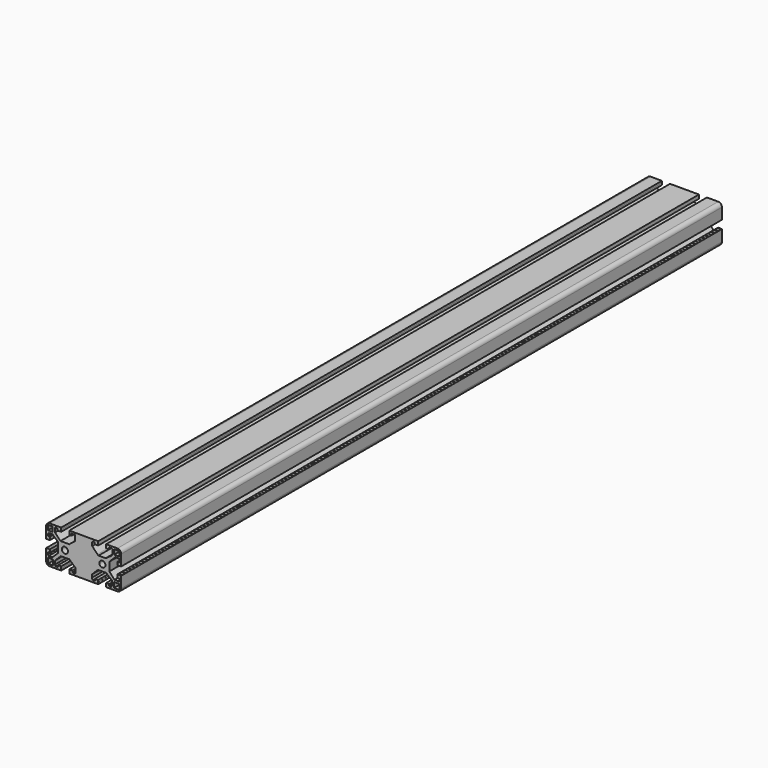
from build123d import *

# Parameters (mm, degrees)
F0_R     = 2.45
F0_W     = 1.981159
F0_H     = 1.5
F0_W_2   = 2.842553
F0_W_3   = 1.5
F0_H_2   = 2.468955
F0_W_4   = 2.452735
F0_W_5   = 2.534492
F0_W_6   = 2.289216
F0_H_3   = 2.337886
F0_W_7   = 2.144671
F0_W_8   = 3.006068
F1_DEPTH = 600


with BuildPart() as f1:
    # F0 (on Front) → F1 (new body)
    with BuildSketch(Plane.XZ):
        with BuildLine():
            Line((-53.070132, 53.634533), (-62.125003, 53.634533))
            ThreePointArc((-62.125003, 53.634533), (-64.246324, 52.755854), (-65.125003, 50.634533))
            Line((-65.125003, 50.634533), (-65.125003, 41.826408))
            Line((-65.125003, 41.826408), (-63.625003, 41.826408))
            Line((-63.625003, 41.826408), (-63.625003, 44.295363))
            Line((-63.625003, 44.295363), (-63.625003, 45.603488))
            Line((-63.625003, 45.603488), (-63.625003, 48.301496))
            Line((-63.625003, 48.301496), (-63.625003, 51.134533))
            Line((-63.625003, 51.134533), (-63.625003, 52.134533))
            Line((-63.625003, 52.134533), (-62.625003, 52.134533))
            Line((-62.625003, 52.134533), (-59.837058, 52.134533))
            Line((-59.837058, 52.134533), (-57.975602, 52.134533))
            Line((-57.975602, 52.134533), (-55.912685, 52.134533))
            Line((-55.912685, 52.134533), (-53.070132, 52.134533))
            Line((-53.070132, 52.134533), (-53.070132, 53.634533))
        make_face()
        Polygon((-23.473811, 53.634533), (-46.611269, 53.634533), (-46.611269, 52.134533), (-44.63011, 52.134533), (-41.951072, 52.134533), (-38.108457, 52.134533), (-32.058381, 52.134533), (-27.561702, 52.134533), (-26.479879, 52.134533), (-23.473811, 52.134533), align=None)
        with BuildLine():
            Line((-8.125003, 53.634533), (-17.096702, 53.634533))
            Line((-17.096702, 53.634533), (-17.096702, 52.134533))
            Line((-17.096702, 52.134533), (-14.952031, 52.134533))
            Line((-14.952031, 52.134533), (-12.857073, 52.134533))
            Line((-12.857073, 52.134533), (-10.801355, 52.134533))
            Line((-10.801355, 52.134533), (-7.625003, 52.134533))
            Line((-7.625003, 52.134533), (-6.625003, 52.134533))
            Line((-6.625003, 52.134533), (-6.625003, 51.134533))
            Line((-6.625003, 51.134533), (-6.625003, 48.318361))
            Line((-6.625003, 48.318361), (-6.625003, 46.813633))
            Line((-6.625003, 46.813633), (-6.625003, 44.164294))
            Line((-6.625003, 44.164294), (-6.625003, 41.826408))
            Line((-6.625003, 41.826408), (-5.125003, 41.826408))
            Line((-5.125003, 41.826408), (-5.125003, 50.634533))
            ThreePointArc((-5.125003, 50.634533), (-6.003683, 52.755854), (-8.125003, 53.634533))
        make_face()
        with BuildLine():
            Line((-63.625003, 35.285785), (-65.125003, 35.285785))
            Line((-65.125003, 35.285785), (-65.125003, 26.373664))
            ThreePointArc((-65.125003, 26.373664), (-64.246324, 24.252343), (-62.125003, 23.373664))
            Line((-62.125003, 23.373664), (-53.070132, 23.373664))
            Line((-53.070132, 23.373664), (-53.070132, 24.873664))
            Line((-53.070132, 24.873664), (-55.522867, 24.873664))
            Line((-55.522867, 24.873664), (-57.403297, 24.873664))
            Line((-57.403297, 24.873664), (-59.447241, 24.873664))
            Line((-59.447241, 24.873664), (-62.625003, 24.873664))
            Line((-62.625003, 24.873664), (-63.625003, 24.873664))
            Line((-63.625003, 24.873664), (-63.625003, 25.873664))
            Line((-63.625003, 25.873664), (-63.625003, 29.088415))
            Line((-63.625003, 29.088415), (-63.625003, 31.459391))
            Line((-63.625003, 31.459391), (-63.625003, 33.012789))
            Line((-63.625003, 33.012789), (-63.625003, 35.285785))
        make_face()
        Polygon((-46.611269, 24.873664), (-46.611269, 23.373664), (-23.473811, 23.373664), (-23.473811, 24.873664), (-23.55557, 24.873664), (-26.090062, 24.873664), (-27.806975, 24.873664), (-31.894863, 24.873664), (-38.35373, 24.873664), (-41.787558, 24.873664), (-44.158534, 24.873664), align=None)
        with BuildLine():
            Line((-5.125003, 26.373664), (-5.125003, 35.285785))
            Line((-5.125003, 35.285785), (-6.625003, 35.285785))
            Line((-6.625003, 35.285785), (-6.625003, 32.88172))
            Line((-6.625003, 32.88172), (-6.625003, 30.789106))
            Line((-6.625003, 30.789106), (-6.625003, 29.120862))
            Line((-6.625003, 29.120862), (-6.625003, 25.773664))
            Line((-6.625003, 25.773664), (-6.625003, 24.873664))
            Line((-6.625003, 24.873664), (-7.525003, 24.873664))
            Line((-7.525003, 24.873664), (-10.883111, 24.873664))
            Line((-10.883111, 24.873664), (-13.090572, 24.873664))
            Line((-13.090572, 24.873664), (-14.807486, 24.873664))
            Line((-14.807486, 24.873664), (-17.096702, 24.873664))
            Line((-17.096702, 24.873664), (-17.096702, 23.373664))
            Line((-17.096702, 23.373664), (-8.125003, 23.373664))
            ThreePointArc((-8.125003, 23.373664), (-6.003683, 24.252343), (-5.125003, 26.373664))
        make_face()
        Polygon((-28.238816, 51.493694), (-27.561702, 52.134533), (-32.058381, 52.134533), (-38.108457, 52.134533), (-40.070646, 50.607581), (-40.070646, 47.991332), (-41.133494, 46.110899), (-44.240293, 43.004104), (-45.057871, 41.695979), (-45.057871, 35.891176), (-44.076775, 34.256019), (-40.888221, 30.98571), (-39.988887, 29.10528), (-39.988887, 27.63364), (-39.253068, 26.325515), (-38.35373, 24.873664), (-31.894863, 24.873664), (-27.806975, 24.873664), (-28.624554, 26.259338), (-28.624554, 28.548557), (-23.719084, 33.454025), (-17.178463, 33.454025), (-12.354753, 29.529651), (-12.354753, 26.177581), (-13.090572, 24.873664), (-10.883111, 24.873664), (-10.883111, 29.120862), (-6.625003, 29.120862), (-6.625003, 30.789106), (-10.493293, 30.789106), (-14.581185, 35.285785), (-14.581185, 42.15344), (-9.920991, 46.813633), (-6.625003, 46.813633), (-6.625003, 48.318361), (-10.801355, 48.318361), (-10.801355, 52.134533), (-12.857073, 52.134533), (-11.976291, 51.506915), (-11.976291, 48.246956), (-13.090572, 46.683204), (-17.505493, 43.638769), (-23.21886, 43.638769), (-24.083539, 44.254912), (-28.238816, 48.645393), align=None)
        with Locations((-20.125003, 38.634533)):
            Circle(F0_R, mode=Mode.SUBTRACT)
        Polygon((-57.975602, 48.563634), (-57.975602, 52.134533), (-59.837058, 52.134533), (-59.837058, 48.301496), (-63.625003, 48.301496), (-63.625003, 45.603488), (-62.862098, 46.666339), (-60.082331, 46.666339), (-55.422138, 42.578451), (-55.422138, 35.056733), (-60.000576, 30.478297), (-63.025609, 30.478297), (-63.625003, 31.459391), (-63.625003, 29.088415), (-59.447241, 29.088415), (-59.447241, 24.873664), (-57.403297, 24.873664), (-58.139116, 25.932308), (-58.139116, 28.712073), (-53.397164, 33.454025), (-46.611269, 33.454025), (-41.787558, 29.120862), (-41.787558, 25.687035), (-41.787558, 24.873664), (-38.35373, 24.873664), (-39.253068, 26.325515), (-39.988887, 27.63364), (-39.988887, 29.10528), (-40.888221, 30.98571), (-44.076775, 34.256019), (-45.057871, 35.891176), (-45.057871, 41.695979), (-44.240293, 43.004104), (-41.133494, 46.110899), (-40.070646, 47.991332), (-40.070646, 50.607581), (-38.108457, 52.134533), (-41.951072, 52.134533), (-41.951072, 47.746059), (-46.611269, 43.985196), (-53.642437, 43.985196), align=None)
        with Locations((-50.125003, 38.634533)):
            Circle(F0_R, mode=Mode.SUBTRACT)
        with Locations((-45.620689, 51.384533)):
            Rectangle(F0_W, F0_H)
        with Locations((-54.491408, 51.384533)):
            Rectangle(F0_W_2, F0_H)
        with Locations((-62.875003, 43.060885)):
            Rectangle(F0_W_3, F0_H_2)
        Polygon((-63.625003, 35.383765), (-63.625003, 35.285785), (-63.625003, 33.012789), (-62.125003, 33.012789), (-62.125003, 35.383765), align=None)
        with Locations((-54.296499, 25.623664)):
            Rectangle(F0_W_4, F0_H)
        with Locations((-45.384901, 25.623664)):
            Rectangle(F0_W_4, F0_H)
        with Locations((-24.822816, 25.623664)):
            Rectangle(F0_W_5, F0_H)
        with Locations((-15.952094, 25.623664)):
            Rectangle(F0_W_6, F0_H)
        Polygon((-6.625003, 32.88172), (-6.625003, 35.285785), (-6.625003, 35.383765), (-8.125003, 35.383765), (-8.125003, 32.88172), align=None)
        with Locations((-7.375003, 42.995351)):
            Rectangle(F0_W_3, F0_H_3)
        with Locations((-16.024366, 51.384533)):
            Rectangle(F0_W_7, F0_H)
        with Locations((-24.976845, 51.384533)):
            Rectangle(F0_W_8, F0_H)
    extrude(amount=F1_DEPTH)


solid = f1.part
